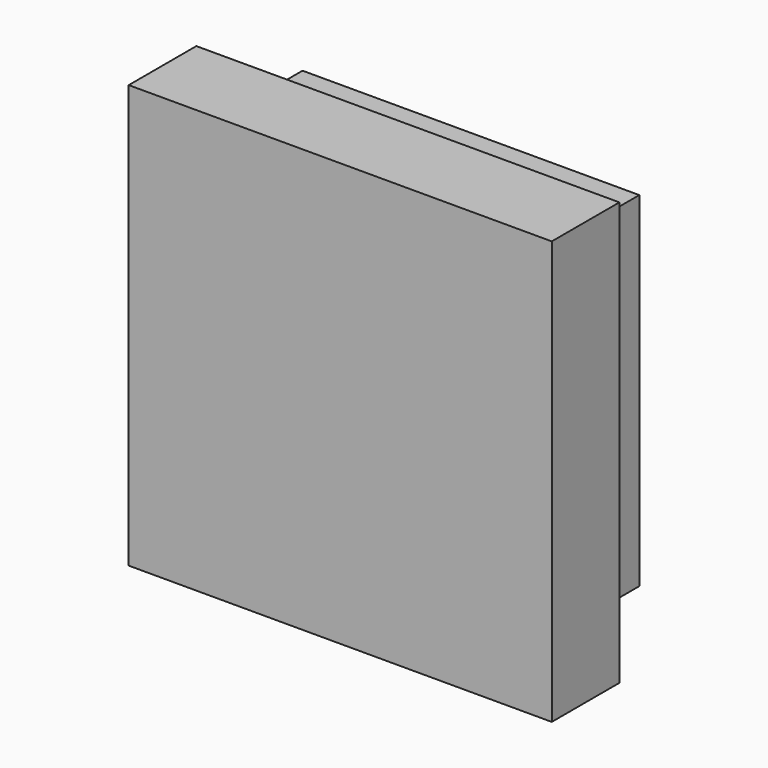
from build123d import *

# Parameters (mm, degrees)
F0_W     = 15.92
F0_H     = 15.92
F1_DEPTH = 3.18
F2_W     = 12.67301
F2_H     = 12.957341
F3_DEPTH = 6.18


with BuildPart() as f1:
    # F0 (on Front) → F1 (new body)
    with BuildSketch(Plane.XZ):
        with Locations((4.057728, -2.084656)):
            Rectangle(F0_W, F0_H)
    extrude(amount=-F1_DEPTH)

    # F2 (on face) → F3 (join)
    with BuildSketch(Plane.XZ):
        with Locations((4.030503, -2.118384)):
            Rectangle(F2_W, F2_H)
    extrude(amount=-F3_DEPTH)


solid = f1.part
